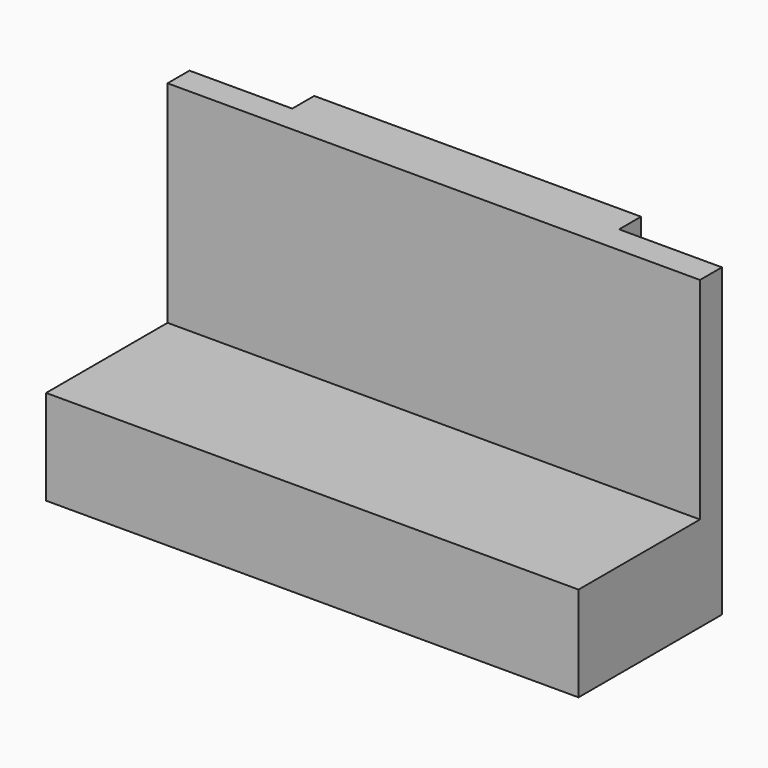
from build123d import *

# Parameters (mm, degrees)
SKETCH_W     = 50.5
SKETCH_H     = 17
PAD_DEPTH    = 9
SKETCH001_W  = 2.6
SKETCH001_H  = 29
PAD001_DEPTH = 25.25
SKETCH002_W  = 31
SKETCH002_H  = 2.6
PAD002_DEPTH = 2.6


with BuildPart() as part:
    # Sketch → Pad (new body)
    with BuildSketch(Plane.XY):
        Rectangle(SKETCH_W, SKETCH_H)
    extrude(amount=PAD_DEPTH)

    # Sketch001 → Pad001 (join, symmetric)
    with BuildSketch(Plane.YZ):
        with Locations((7.2, 14.5)):
            Rectangle(SKETCH001_W, SKETCH001_H)
    extrude(amount=PAD001_DEPTH, both=True)

    # Sketch002 (on Face5 of Pad001) → Pad002 (join)
    with BuildSketch(Plane(origin=(0, 8.5, 0), x_dir=(-1, 0, 0), z_dir=(0, 1, 0))):
        with Locations((0, 27.7)):
            Rectangle(SKETCH002_W, SKETCH002_H)
    extrude(amount=PAD002_DEPTH)


solid = part.part
